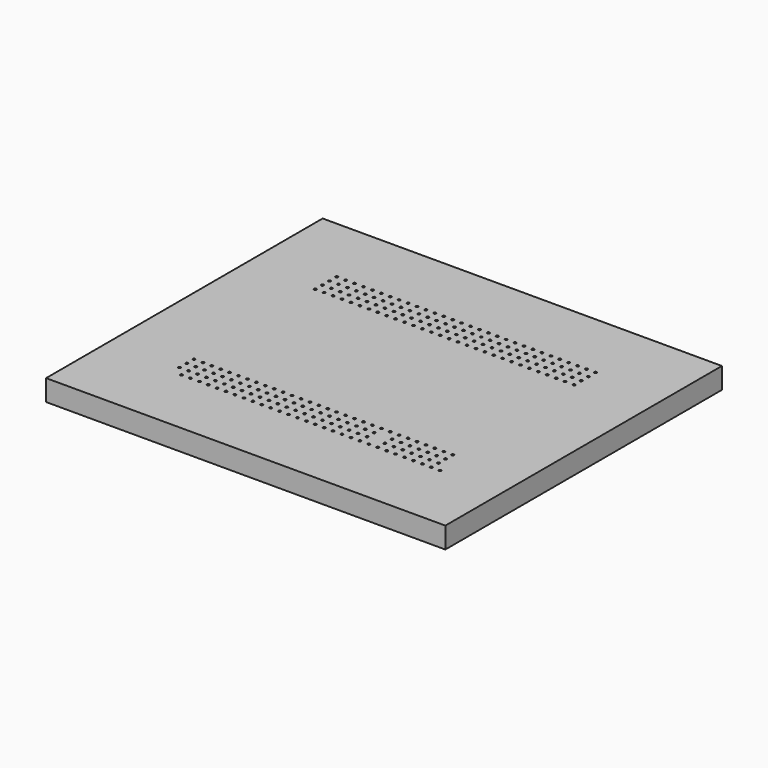
from build123d import *

# Parameters (mm, degrees)
F0_W     = 56.83
F0_H     = 49.21
F0_R     = 0.175
F1_DEPTH = 3


with BuildPart() as f1:
    # F0 (on Top) → F1 (new body)
    with BuildSketch(Plane.XY):
        with Locations((-28.415, 24.605)):
            Rectangle(F0_W, F0_H)
        with Locations((-48.1, 10)):
            Circle(F0_R, mode=Mode.SUBTRACT)
        with Locations((-46.83, 10)):
            Circle(F0_R, mode=Mode.SUBTRACT)
        with Locations((-46.83, 11.27)):
            Circle(F0_R, mode=Mode.SUBTRACT)
        with Locations((-45.56, 10)):
            Circle(F0_R, mode=Mode.SUBTRACT)
        with Locations((-44.29, 10)):
            Circle(F0_R, mode=Mode.SUBTRACT)
        with Locations((-43.02, 10)):
            Circle(F0_R, mode=Mode.SUBTRACT)
        with Locations((-45.56, 11.27)):
            Circle(F0_R, mode=Mode.SUBTRACT)
        with Locations((-44.29, 11.27)):
            Circle(F0_R, mode=Mode.SUBTRACT)
        with Locations((-43.02, 11.27)):
            Circle(F0_R, mode=Mode.SUBTRACT)
        with Locations((-41.75, 10)):
            Circle(F0_R, mode=Mode.SUBTRACT)
        with Locations((-40.48, 10)):
            Circle(F0_R, mode=Mode.SUBTRACT)
        with Locations((-39.21, 10)):
            Circle(F0_R, mode=Mode.SUBTRACT)
        with Locations((-41.75, 11.27)):
            Circle(F0_R, mode=Mode.SUBTRACT)
        with Locations((-40.48, 11.27)):
            Circle(F0_R, mode=Mode.SUBTRACT)
        with Locations((-39.21, 11.27)):
            Circle(F0_R, mode=Mode.SUBTRACT)
        with Locations((-37.94, 10)):
            Circle(F0_R, mode=Mode.SUBTRACT)
        with Locations((-36.67, 10)):
            Circle(F0_R, mode=Mode.SUBTRACT)
        with Locations((-36.67, 11.27)):
            Circle(F0_R, mode=Mode.SUBTRACT)
        with Locations((-35.4, 10)):
            Circle(F0_R, mode=Mode.SUBTRACT)
        with Locations((-34.13, 10)):
            Circle(F0_R, mode=Mode.SUBTRACT)
        with Locations((-32.86, 10)):
            Circle(F0_R, mode=Mode.SUBTRACT)
        with Locations((-35.4, 11.27)):
            Circle(F0_R, mode=Mode.SUBTRACT)
        with Locations((-34.13, 11.27)):
            Circle(F0_R, mode=Mode.SUBTRACT)
        with Locations((-32.86, 11.27)):
            Circle(F0_R, mode=Mode.SUBTRACT)
        with Locations((-31.59, 10)):
            Circle(F0_R, mode=Mode.SUBTRACT)
        with Locations((-30.32, 10)):
            Circle(F0_R, mode=Mode.SUBTRACT)
        with Locations((-29.05, 10)):
            Circle(F0_R, mode=Mode.SUBTRACT)
        with Locations((-31.59, 11.27)):
            Circle(F0_R, mode=Mode.SUBTRACT)
        with Locations((-30.32, 11.27)):
            Circle(F0_R, mode=Mode.SUBTRACT)
        with Locations((-29.05, 11.27)):
            Circle(F0_R, mode=Mode.SUBTRACT)
        with Locations((-46.83, 12.54)):
            Circle(F0_R, mode=Mode.SUBTRACT)
        with Locations((-46.83, 13.81)):
            Circle(F0_R, mode=Mode.SUBTRACT)
        with Locations((-45.56, 12.54)):
            Circle(F0_R, mode=Mode.SUBTRACT)
        with Locations((-45.56, 13.81)):
            Circle(F0_R, mode=Mode.SUBTRACT)
        with Locations((-44.29, 12.54)):
            Circle(F0_R, mode=Mode.SUBTRACT)
        with Locations((-43.02, 12.54)):
            Circle(F0_R, mode=Mode.SUBTRACT)
        with Locations((-44.29, 13.81)):
            Circle(F0_R, mode=Mode.SUBTRACT)
        with Locations((-43.02, 13.81)):
            Circle(F0_R, mode=Mode.SUBTRACT)
        with Locations((-41.75, 12.54)):
            Circle(F0_R, mode=Mode.SUBTRACT)
        with Locations((-41.75, 13.81)):
            Circle(F0_R, mode=Mode.SUBTRACT)
        with Locations((-40.48, 12.54)):
            Circle(F0_R, mode=Mode.SUBTRACT)
        with Locations((-39.21, 12.54)):
            Circle(F0_R, mode=Mode.SUBTRACT)
        with Locations((-40.48, 13.81)):
            Circle(F0_R, mode=Mode.SUBTRACT)
        with Locations((-39.21, 13.81)):
            Circle(F0_R, mode=Mode.SUBTRACT)
        with Locations((-37.94, 13.81)):
            Circle(F0_R, mode=Mode.SUBTRACT)
        with Locations((-36.67, 12.54)):
            Circle(F0_R, mode=Mode.SUBTRACT)
        with Locations((-36.67, 13.81)):
            Circle(F0_R, mode=Mode.SUBTRACT)
        with Locations((-35.4, 12.54)):
            Circle(F0_R, mode=Mode.SUBTRACT)
        with Locations((-34.13, 12.54)):
            Circle(F0_R, mode=Mode.SUBTRACT)
        with Locations((-35.4, 13.81)):
            Circle(F0_R, mode=Mode.SUBTRACT)
        with Locations((-34.13, 13.81)):
            Circle(F0_R, mode=Mode.SUBTRACT)
        with Locations((-32.86, 12.54)):
            Circle(F0_R, mode=Mode.SUBTRACT)
        with Locations((-32.86, 13.81)):
            Circle(F0_R, mode=Mode.SUBTRACT)
        with Locations((-31.59, 12.54)):
            Circle(F0_R, mode=Mode.SUBTRACT)
        with Locations((-30.32, 12.54)):
            Circle(F0_R, mode=Mode.SUBTRACT)
        with Locations((-31.59, 13.81)):
            Circle(F0_R, mode=Mode.SUBTRACT)
        with Locations((-30.32, 13.81)):
            Circle(F0_R, mode=Mode.SUBTRACT)
        with Locations((-29.05, 12.54)):
            Circle(F0_R, mode=Mode.SUBTRACT)
        with Locations((-29.05, 13.81)):
            Circle(F0_R, mode=Mode.SUBTRACT)
        with Locations((-27.78, 10)):
            Circle(F0_R, mode=Mode.SUBTRACT)
        with Locations((-26.51, 10)):
            Circle(F0_R, mode=Mode.SUBTRACT)
        with Locations((-25.24, 10)):
            Circle(F0_R, mode=Mode.SUBTRACT)
        with Locations((-27.78, 11.27)):
            Circle(F0_R, mode=Mode.SUBTRACT)
        with Locations((-26.51, 11.27)):
            Circle(F0_R, mode=Mode.SUBTRACT)
        with Locations((-25.24, 11.27)):
            Circle(F0_R, mode=Mode.SUBTRACT)
        with Locations((-23.97, 10)):
            Circle(F0_R, mode=Mode.SUBTRACT)
        with Locations((-22.7, 10)):
            Circle(F0_R, mode=Mode.SUBTRACT)
        with Locations((-21.43, 10)):
            Circle(F0_R, mode=Mode.SUBTRACT)
        with Locations((-23.97, 11.27)):
            Circle(F0_R, mode=Mode.SUBTRACT)
        with Locations((-22.7, 11.27)):
            Circle(F0_R, mode=Mode.SUBTRACT)
        with Locations((-21.43, 11.27)):
            Circle(F0_R, mode=Mode.SUBTRACT)
        with Locations((-20.16, 10)):
            Circle(F0_R, mode=Mode.SUBTRACT)
        with Locations((-18.89, 10)):
            Circle(F0_R, mode=Mode.SUBTRACT)
        with Locations((-20.16, 11.27)):
            Circle(F0_R, mode=Mode.SUBTRACT)
        with Locations((-18.89, 11.27)):
            Circle(F0_R, mode=Mode.SUBTRACT)
        with Locations((-17.62, 10)):
            Circle(F0_R, mode=Mode.SUBTRACT)
        with Locations((-16.35, 10)):
            Circle(F0_R, mode=Mode.SUBTRACT)
        with Locations((-15.08, 10)):
            Circle(F0_R, mode=Mode.SUBTRACT)
        with Locations((-17.62, 11.27)):
            Circle(F0_R, mode=Mode.SUBTRACT)
        with Locations((-16.35, 11.27)):
            Circle(F0_R, mode=Mode.SUBTRACT)
        with Locations((-15.08, 11.27)):
            Circle(F0_R, mode=Mode.SUBTRACT)
        with Locations((-13.81, 10)):
            Circle(F0_R, mode=Mode.SUBTRACT)
        with Locations((-12.54, 10)):
            Circle(F0_R, mode=Mode.SUBTRACT)
        with Locations((-11.27, 10)):
            Circle(F0_R, mode=Mode.SUBTRACT)
        with Locations((-13.81, 11.27)):
            Circle(F0_R, mode=Mode.SUBTRACT)
        with Locations((-12.54, 11.27)):
            Circle(F0_R, mode=Mode.SUBTRACT)
        with Locations((-11.27, 11.27)):
            Circle(F0_R, mode=Mode.SUBTRACT)
        with Locations((-10, 11.27)):
            Circle(F0_R, mode=Mode.SUBTRACT)
        with Locations((-27.78, 12.54)):
            Circle(F0_R, mode=Mode.SUBTRACT)
        with Locations((-27.78, 13.81)):
            Circle(F0_R, mode=Mode.SUBTRACT)
        with Locations((-26.51, 12.54)):
            Circle(F0_R, mode=Mode.SUBTRACT)
        with Locations((-25.24, 12.54)):
            Circle(F0_R, mode=Mode.SUBTRACT)
        with Locations((-26.51, 13.81)):
            Circle(F0_R, mode=Mode.SUBTRACT)
        with Locations((-25.24, 13.81)):
            Circle(F0_R, mode=Mode.SUBTRACT)
        with Locations((-23.97, 12.54)):
            Circle(F0_R, mode=Mode.SUBTRACT)
        with Locations((-23.97, 13.81)):
            Circle(F0_R, mode=Mode.SUBTRACT)
        with Locations((-22.7, 12.54)):
            Circle(F0_R, mode=Mode.SUBTRACT)
        with Locations((-21.43, 12.54)):
            Circle(F0_R, mode=Mode.SUBTRACT)
        with Locations((-22.7, 13.81)):
            Circle(F0_R, mode=Mode.SUBTRACT)
        with Locations((-21.43, 13.81)):
            Circle(F0_R, mode=Mode.SUBTRACT)
        with Locations((-20.16, 12.54)):
            Circle(F0_R, mode=Mode.SUBTRACT)
        with Locations((-20.16, 13.81)):
            Circle(F0_R, mode=Mode.SUBTRACT)
        with Locations((-18.89, 12.54)):
            Circle(F0_R, mode=Mode.SUBTRACT)
        with Locations((-18.89, 13.81)):
            Circle(F0_R, mode=Mode.SUBTRACT)
        with Locations((-17.62, 12.54)):
            Circle(F0_R, mode=Mode.SUBTRACT)
        with Locations((-16.35, 12.54)):
            Circle(F0_R, mode=Mode.SUBTRACT)
        with Locations((-17.62, 13.81)):
            Circle(F0_R, mode=Mode.SUBTRACT)
        with Locations((-16.35, 13.81)):
            Circle(F0_R, mode=Mode.SUBTRACT)
        with Locations((-15.08, 12.54)):
            Circle(F0_R, mode=Mode.SUBTRACT)
        with Locations((-15.08, 13.81)):
            Circle(F0_R, mode=Mode.SUBTRACT)
        with Locations((-13.81, 12.54)):
            Circle(F0_R, mode=Mode.SUBTRACT)
        with Locations((-12.54, 12.54)):
            Circle(F0_R, mode=Mode.SUBTRACT)
        with Locations((-13.81, 13.81)):
            Circle(F0_R, mode=Mode.SUBTRACT)
        with Locations((-12.54, 13.81)):
            Circle(F0_R, mode=Mode.SUBTRACT)
        with Locations((-11.27, 12.54)):
            Circle(F0_R, mode=Mode.SUBTRACT)
        with Locations((-11.27, 13.81)):
            Circle(F0_R, mode=Mode.SUBTRACT)
        with Locations((-10, 12.54)):
            Circle(F0_R, mode=Mode.SUBTRACT)
        with Locations((-10, 13.81)):
            Circle(F0_R, mode=Mode.SUBTRACT)
        with Locations((-46.83, 35.4)):
            Circle(F0_R, mode=Mode.SUBTRACT)
        with Locations((-46.83, 36.67)):
            Circle(F0_R, mode=Mode.SUBTRACT)
        with Locations((-45.56, 35.4)):
            Circle(F0_R, mode=Mode.SUBTRACT)
        with Locations((-45.56, 36.67)):
            Circle(F0_R, mode=Mode.SUBTRACT)
        with Locations((-44.29, 35.4)):
            Circle(F0_R, mode=Mode.SUBTRACT)
        with Locations((-43.02, 35.4)):
            Circle(F0_R, mode=Mode.SUBTRACT)
        with Locations((-44.29, 36.67)):
            Circle(F0_R, mode=Mode.SUBTRACT)
        with Locations((-43.02, 36.67)):
            Circle(F0_R, mode=Mode.SUBTRACT)
        with Locations((-41.75, 35.4)):
            Circle(F0_R, mode=Mode.SUBTRACT)
        with Locations((-41.75, 36.67)):
            Circle(F0_R, mode=Mode.SUBTRACT)
        with Locations((-40.48, 35.4)):
            Circle(F0_R, mode=Mode.SUBTRACT)
        with Locations((-39.21, 35.4)):
            Circle(F0_R, mode=Mode.SUBTRACT)
        with Locations((-40.48, 36.67)):
            Circle(F0_R, mode=Mode.SUBTRACT)
        with Locations((-39.21, 36.67)):
            Circle(F0_R, mode=Mode.SUBTRACT)
        with Locations((-37.94, 35.4)):
            Circle(F0_R, mode=Mode.SUBTRACT)
        with Locations((-37.94, 36.67)):
            Circle(F0_R, mode=Mode.SUBTRACT)
        with Locations((-36.67, 35.4)):
            Circle(F0_R, mode=Mode.SUBTRACT)
        with Locations((-36.67, 36.67)):
            Circle(F0_R, mode=Mode.SUBTRACT)
        with Locations((-35.4, 35.4)):
            Circle(F0_R, mode=Mode.SUBTRACT)
        with Locations((-34.13, 35.4)):
            Circle(F0_R, mode=Mode.SUBTRACT)
        with Locations((-35.4, 36.67)):
            Circle(F0_R, mode=Mode.SUBTRACT)
        with Locations((-34.13, 36.67)):
            Circle(F0_R, mode=Mode.SUBTRACT)
        with Locations((-32.86, 35.4)):
            Circle(F0_R, mode=Mode.SUBTRACT)
        with Locations((-32.86, 36.67)):
            Circle(F0_R, mode=Mode.SUBTRACT)
        with Locations((-31.59, 35.4)):
            Circle(F0_R, mode=Mode.SUBTRACT)
        with Locations((-30.32, 35.4)):
            Circle(F0_R, mode=Mode.SUBTRACT)
        with Locations((-31.59, 36.67)):
            Circle(F0_R, mode=Mode.SUBTRACT)
        with Locations((-30.32, 36.67)):
            Circle(F0_R, mode=Mode.SUBTRACT)
        with Locations((-29.05, 35.4)):
            Circle(F0_R, mode=Mode.SUBTRACT)
        with Locations((-29.05, 36.67)):
            Circle(F0_R, mode=Mode.SUBTRACT)
        with Locations((-46.83, 37.94)):
            Circle(F0_R, mode=Mode.SUBTRACT)
        with Locations((-46.83, 39.21)):
            Circle(F0_R, mode=Mode.SUBTRACT)
        with Locations((-45.56, 37.94)):
            Circle(F0_R, mode=Mode.SUBTRACT)
        with Locations((-44.29, 37.94)):
            Circle(F0_R, mode=Mode.SUBTRACT)
        with Locations((-43.02, 37.94)):
            Circle(F0_R, mode=Mode.SUBTRACT)
        with Locations((-45.56, 39.21)):
            Circle(F0_R, mode=Mode.SUBTRACT)
        with Locations((-44.29, 39.21)):
            Circle(F0_R, mode=Mode.SUBTRACT)
        with Locations((-43.02, 39.21)):
            Circle(F0_R, mode=Mode.SUBTRACT)
        with Locations((-41.75, 37.94)):
            Circle(F0_R, mode=Mode.SUBTRACT)
        with Locations((-40.48, 37.94)):
            Circle(F0_R, mode=Mode.SUBTRACT)
        with Locations((-39.21, 37.94)):
            Circle(F0_R, mode=Mode.SUBTRACT)
        with Locations((-41.75, 39.21)):
            Circle(F0_R, mode=Mode.SUBTRACT)
        with Locations((-40.48, 39.21)):
            Circle(F0_R, mode=Mode.SUBTRACT)
        with Locations((-39.21, 39.21)):
            Circle(F0_R, mode=Mode.SUBTRACT)
        with Locations((-37.94, 37.94)):
            Circle(F0_R, mode=Mode.SUBTRACT)
        with Locations((-36.67, 37.94)):
            Circle(F0_R, mode=Mode.SUBTRACT)
        with Locations((-37.94, 39.21)):
            Circle(F0_R, mode=Mode.SUBTRACT)
        with Locations((-36.67, 39.21)):
            Circle(F0_R, mode=Mode.SUBTRACT)
        with Locations((-35.4, 37.94)):
            Circle(F0_R, mode=Mode.SUBTRACT)
        with Locations((-34.13, 37.94)):
            Circle(F0_R, mode=Mode.SUBTRACT)
        with Locations((-32.86, 37.94)):
            Circle(F0_R, mode=Mode.SUBTRACT)
        with Locations((-35.4, 39.21)):
            Circle(F0_R, mode=Mode.SUBTRACT)
        with Locations((-34.13, 39.21)):
            Circle(F0_R, mode=Mode.SUBTRACT)
        with Locations((-32.86, 39.21)):
            Circle(F0_R, mode=Mode.SUBTRACT)
        with Locations((-31.59, 37.94)):
            Circle(F0_R, mode=Mode.SUBTRACT)
        with Locations((-30.32, 37.94)):
            Circle(F0_R, mode=Mode.SUBTRACT)
        with Locations((-29.05, 37.94)):
            Circle(F0_R, mode=Mode.SUBTRACT)
        with Locations((-31.59, 39.21)):
            Circle(F0_R, mode=Mode.SUBTRACT)
        with Locations((-30.32, 39.21)):
            Circle(F0_R, mode=Mode.SUBTRACT)
        with Locations((-29.05, 39.21)):
            Circle(F0_R, mode=Mode.SUBTRACT)
        with Locations((-27.78, 35.4)):
            Circle(F0_R, mode=Mode.SUBTRACT)
        with Locations((-27.78, 36.67)):
            Circle(F0_R, mode=Mode.SUBTRACT)
        with Locations((-26.51, 35.4)):
            Circle(F0_R, mode=Mode.SUBTRACT)
        with Locations((-25.24, 35.4)):
            Circle(F0_R, mode=Mode.SUBTRACT)
        with Locations((-26.51, 36.67)):
            Circle(F0_R, mode=Mode.SUBTRACT)
        with Locations((-25.24, 36.67)):
            Circle(F0_R, mode=Mode.SUBTRACT)
        with Locations((-23.97, 35.4)):
            Circle(F0_R, mode=Mode.SUBTRACT)
        with Locations((-23.97, 36.67)):
            Circle(F0_R, mode=Mode.SUBTRACT)
        with Locations((-22.7, 35.4)):
            Circle(F0_R, mode=Mode.SUBTRACT)
        with Locations((-21.43, 35.4)):
            Circle(F0_R, mode=Mode.SUBTRACT)
        with Locations((-22.7, 36.67)):
            Circle(F0_R, mode=Mode.SUBTRACT)
        with Locations((-21.43, 36.67)):
            Circle(F0_R, mode=Mode.SUBTRACT)
        with Locations((-20.16, 35.4)):
            Circle(F0_R, mode=Mode.SUBTRACT)
        with Locations((-20.16, 36.67)):
            Circle(F0_R, mode=Mode.SUBTRACT)
        with Locations((-18.89, 35.4)):
            Circle(F0_R, mode=Mode.SUBTRACT)
        with Locations((-18.89, 36.67)):
            Circle(F0_R, mode=Mode.SUBTRACT)
        with Locations((-17.62, 35.4)):
            Circle(F0_R, mode=Mode.SUBTRACT)
        with Locations((-16.35, 35.4)):
            Circle(F0_R, mode=Mode.SUBTRACT)
        with Locations((-17.62, 36.67)):
            Circle(F0_R, mode=Mode.SUBTRACT)
        with Locations((-16.35, 36.67)):
            Circle(F0_R, mode=Mode.SUBTRACT)
        with Locations((-15.08, 35.4)):
            Circle(F0_R, mode=Mode.SUBTRACT)
        with Locations((-15.08, 36.67)):
            Circle(F0_R, mode=Mode.SUBTRACT)
        with Locations((-13.81, 35.4)):
            Circle(F0_R, mode=Mode.SUBTRACT)
        with Locations((-12.54, 35.4)):
            Circle(F0_R, mode=Mode.SUBTRACT)
        with Locations((-13.81, 36.67)):
            Circle(F0_R, mode=Mode.SUBTRACT)
        with Locations((-12.54, 36.67)):
            Circle(F0_R, mode=Mode.SUBTRACT)
        with Locations((-11.27, 35.4)):
            Circle(F0_R, mode=Mode.SUBTRACT)
        with Locations((-11.27, 36.67)):
            Circle(F0_R, mode=Mode.SUBTRACT)
        with Locations((-10, 35.4)):
            Circle(F0_R, mode=Mode.SUBTRACT)
        with Locations((-10, 36.67)):
            Circle(F0_R, mode=Mode.SUBTRACT)
        with Locations((-27.78, 37.94)):
            Circle(F0_R, mode=Mode.SUBTRACT)
        with Locations((-26.51, 37.94)):
            Circle(F0_R, mode=Mode.SUBTRACT)
        with Locations((-25.24, 37.94)):
            Circle(F0_R, mode=Mode.SUBTRACT)
        with Locations((-27.78, 39.21)):
            Circle(F0_R, mode=Mode.SUBTRACT)
        with Locations((-26.51, 39.21)):
            Circle(F0_R, mode=Mode.SUBTRACT)
        with Locations((-25.24, 39.21)):
            Circle(F0_R, mode=Mode.SUBTRACT)
        with Locations((-23.97, 37.94)):
            Circle(F0_R, mode=Mode.SUBTRACT)
        with Locations((-22.7, 37.94)):
            Circle(F0_R, mode=Mode.SUBTRACT)
        with Locations((-21.43, 37.94)):
            Circle(F0_R, mode=Mode.SUBTRACT)
        with Locations((-23.97, 39.21)):
            Circle(F0_R, mode=Mode.SUBTRACT)
        with Locations((-22.7, 39.21)):
            Circle(F0_R, mode=Mode.SUBTRACT)
        with Locations((-21.43, 39.21)):
            Circle(F0_R, mode=Mode.SUBTRACT)
        with Locations((-20.16, 37.94)):
            Circle(F0_R, mode=Mode.SUBTRACT)
        with Locations((-18.89, 37.94)):
            Circle(F0_R, mode=Mode.SUBTRACT)
        with Locations((-20.16, 39.21)):
            Circle(F0_R, mode=Mode.SUBTRACT)
        with Locations((-18.89, 39.21)):
            Circle(F0_R, mode=Mode.SUBTRACT)
        with Locations((-17.62, 37.94)):
            Circle(F0_R, mode=Mode.SUBTRACT)
        with Locations((-16.35, 37.94)):
            Circle(F0_R, mode=Mode.SUBTRACT)
        with Locations((-15.08, 37.94)):
            Circle(F0_R, mode=Mode.SUBTRACT)
        with Locations((-17.62, 39.21)):
            Circle(F0_R, mode=Mode.SUBTRACT)
        with Locations((-16.35, 39.21)):
            Circle(F0_R, mode=Mode.SUBTRACT)
        with Locations((-15.08, 39.21)):
            Circle(F0_R, mode=Mode.SUBTRACT)
        with Locations((-13.81, 37.94)):
            Circle(F0_R, mode=Mode.SUBTRACT)
        with Locations((-12.54, 37.94)):
            Circle(F0_R, mode=Mode.SUBTRACT)
        with Locations((-11.27, 37.94)):
            Circle(F0_R, mode=Mode.SUBTRACT)
        with Locations((-13.81, 39.21)):
            Circle(F0_R, mode=Mode.SUBTRACT)
        with Locations((-12.54, 39.21)):
            Circle(F0_R, mode=Mode.SUBTRACT)
        with Locations((-11.27, 39.21)):
            Circle(F0_R, mode=Mode.SUBTRACT)
        with Locations((-10, 37.94)):
            Circle(F0_R, mode=Mode.SUBTRACT)
        with Locations((-10, 39.21)):
            Circle(F0_R, mode=Mode.SUBTRACT)
    extrude(amount=F1_DEPTH)


with BuildPart() as f2_1:
    # F2: instance of F1
    add(f1.part.mirror(Plane(origin=(0, 24.605, 1.5), x_dir=(0, 1, 0), z_dir=(1, 0, 0))))


solid = f2_1.part
